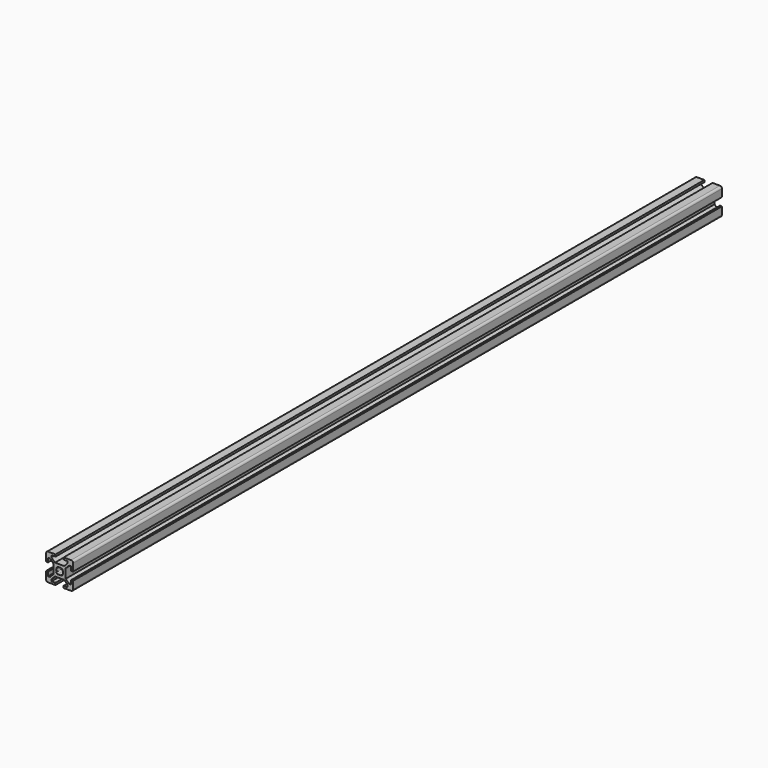
from build123d import *

# Parameters (mm, degrees)
F1_DEPTH = 600


with BuildPart() as f1:
    # F0 (on Front) → F1 (new body)
    with BuildSketch(Plane.XZ):
        with BuildLine():
            Line((3, -10), (8.5, -10))
            ThreePointArc((8.5, -10), (9.5606601718, -9.5606601718), (10, -8.5))
            Line((10, -8.5), (10, -3))
            Line((10, -3), (8.5, -3))
            Line((8.5, -3), (8.5, -6))
            Line((8.5, -6), (7.0606601718, -6))
            Line((7.0606601718, -6), (4.5, -3.4393398282))
            Line((4.5, -3.4393398282), (4.5, 3.4393398282))
            Line((4.5, 3.4393398282), (7.0606601718, 6))
            Line((7.0606601718, 6), (8.5, 6))
            Line((8.5, 6), (8.5, 3))
            Line((8.5, 3), (10, 3))
            Line((10, 3), (10, 8.5))
            ThreePointArc((10, 8.5), (9.5606601718, 9.5606601718), (8.5, 10))
            Line((8.5, 10), (3, 10))
            Line((3, 10), (3, 8.5))
            Line((3, 8.5), (6, 8.5))
            Line((6, 8.5), (6, 7.0606601718))
            Line((6, 7.0606601718), (3.4393398282, 4.5))
            Line((3.4393398282, 4.5), (-3.4393398282, 4.5))
            Line((-3.4393398282, 4.5), (-6, 7.0606601718))
            Line((-6, 7.0606601718), (-6, 8.5))
            Line((-6, 8.5), (-3, 8.5))
            Line((-3, 8.5), (-3, 10))
            Line((-3, 10), (-8.5, 10))
            ThreePointArc((-8.5, 10), (-9.5606601718, 9.5606601718), (-10, 8.5))
            Line((-10, 8.5), (-10, 3))
            Line((-10, 3), (-8.5, 3))
            Line((-8.5, 3), (-8.5, 6))
            Line((-8.5, 6), (-7.0606601718, 6))
            Line((-7.0606601718, 6), (-4.5, 3.4393398282))
            Line((-4.5, 3.4393398282), (-4.5, -3.4393398282))
            Line((-4.5, -3.4393398282), (-7.0606601718, -6))
            Line((-7.0606601718, -6), (-8.5, -6))
            Line((-8.5, -6), (-8.5, -3))
            Line((-8.5, -3), (-10, -3))
            Line((-10, -3), (-10, -8.5))
            ThreePointArc((-10, -8.5), (-9.5606601718, -9.5606601718), (-8.5, -10))
            Line((-8.5, -10), (-3, -10))
            Line((-3, -10), (-3, -8.5))
            Line((-3, -8.5), (-6, -8.5))
            Line((-6, -8.5), (-6, -7.0606601718))
            Line((-6, -7.0606601718), (-3.4393398282, -4.5))
            Line((-3.4393398282, -4.5), (3.4393398282, -4.5))
            Line((3.4393398282, -4.5), (6, -7.0606601718))
            Line((6, -7.0606601718), (6, -8.5))
            Line((6, -8.5), (3, -8.5))
            Line((3, -8.5), (3, -10))
        make_face()
        with BuildLine():
            ThreePointArc((-1.1560121095, 2.2166722813), (0, 2.5), (1.1560121095, 2.2166722813))
            Line((1.1560121095, 2.2166722813), (1.4393398282, 2.5))
            Line((1.4393398282, 2.5), (2.5, 1.4393398282))
            Line((2.5, 1.4393398282), (2.2166722813, 1.1560121095))
            ThreePointArc((2.2166722813, 1.1560121095), (2.5, 0), (2.2166722813, -1.1560121095))
            Line((2.2166722813, -1.1560121095), (2.5, -1.4393398282))
            Line((2.5, -1.4393398282), (1.4393398282, -2.5))
            Line((1.4393398282, -2.5), (1.1560121095, -2.2166722813))
            ThreePointArc((1.1560121095, -2.2166722813), (0, -2.5), (-1.1560121095, -2.2166722813))
            Line((-1.1560121095, -2.2166722813), (-1.4393398282, -2.5))
            Line((-1.4393398282, -2.5), (-2.5, -1.4393398282))
            Line((-2.5, -1.4393398282), (-2.2166722813, -1.1560121095))
            ThreePointArc((-2.2166722813, -1.1560121095), (-2.5, 0), (-2.2166722813, 1.1560121095))
            Line((-2.2166722813, 1.1560121095), (-2.5, 1.4393398282))
            Line((-2.5, 1.4393398282), (-1.4393398282, 2.5))
            Line((-1.4393398282, 2.5), (-1.1560121095, 2.2166722813))
        make_face(mode=Mode.SUBTRACT)
    extrude(amount=F1_DEPTH)


solid = f1.part
